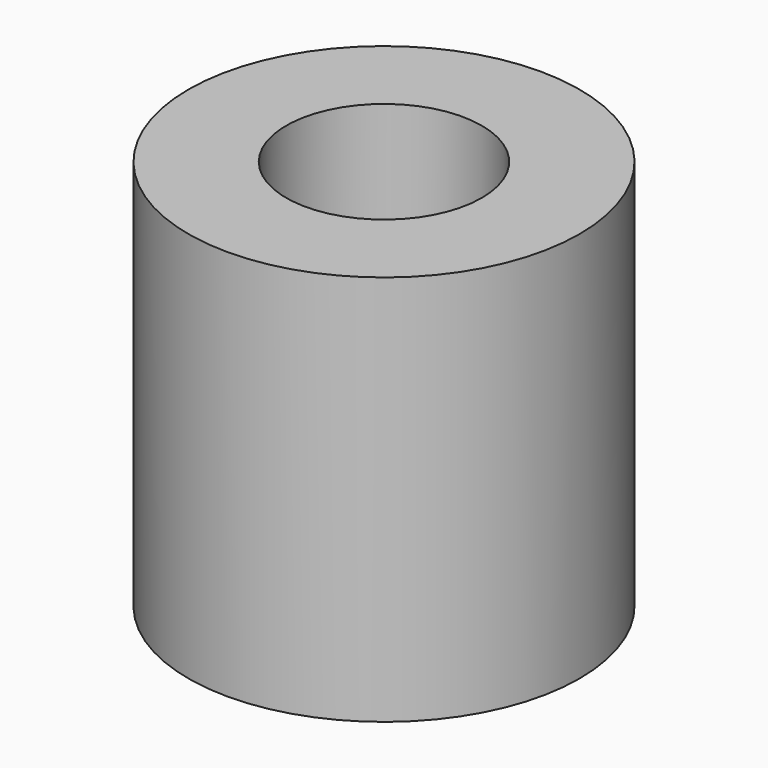
from build123d import *

# Parameters (mm, degrees)
SKETCH_R   = 4
SKETCH_R_2 = 2
PAD_DEPTH  = 8


with BuildPart() as part:
    # Sketch → Pad (new body)
    with BuildSketch(Plane.XY):
        Circle(SKETCH_R)
        Circle(SKETCH_R_2, mode=Mode.SUBTRACT)
    extrude(amount=PAD_DEPTH)


solid = part.part
